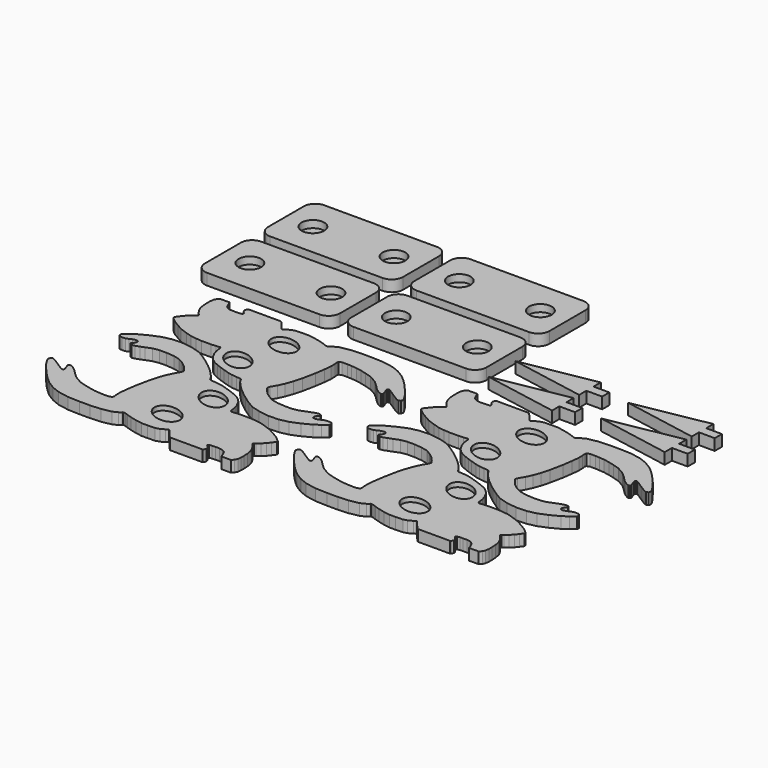
from build123d import *

# Parameters (mm, degrees)
SKETCH020_W               = 16.980982
SKETCH020_H               = 37.458043
PAD013_DEPTH              = 5
PAD012_DEPTH              = 5
POCKET006_DEPTH           = 2
SKETCH017_W               = 16.980982
SKETCH017_H               = 37.458043
PAD011_DEPTH              = 5
PAD010_DEPTH              = 5
POCKET005_DEPTH           = 2
CUT004_PLACEMENT_ANGLE    = 180
SKETCH011_W               = 16.980982
SKETCH011_H               = 37.458043
PAD007_DEPTH              = 5
PAD006_DEPTH              = 5
POCKET003_DEPTH           = 2
SKETCH008_W               = 16.980982
SKETCH008_H               = 37.458043
PAD005_DEPTH              = 5
PAD004_DEPTH              = 5
POCKET002_DEPTH           = 2
CUT001_PLACEMENT_ANGLE    = 180
PAD002_DEPTH              = 5
BODY002_PLACEMENT_ANGLE   = 180
PAD017_DEPTH              = 5
BODY017_PLACEMENT_ANGLE   = 180
PAD018_DEPTH              = 5
BODY018_PLACEMENT_ANGLE   = 180
PAD019_DEPTH              = 5
BODY019_PLACEMENT_ANGLE   = 180
SKETCH004_W               = 30
SKETCH004_H               = 60
PAD003_DEPTH              = 5
FILLET_R                  = 5
SKETCH005_R               = 5
POCKET001_DEPTH           = 3.2
SKETCH021_W               = 30
SKETCH021_H               = 60
PAD014_DEPTH              = 5
FILLET001_R               = 5
SKETCH022_R               = 5
POCKET007_DEPTH           = 3.2
SKETCH023_W               = 30
SKETCH023_H               = 60
PAD015_DEPTH              = 5
FILLET002_R               = 5
SKETCH024_R               = 5
POCKET008_DEPTH           = 3.2
SKETCH025_W               = 30
SKETCH025_H               = 60
PAD016_DEPTH              = 5
FILLET003_R               = 5
SKETCH026_R               = 5
POCKET009_DEPTH           = 3.2
FUSION004_PLACEMENT_ANGLE = 90


with BuildPart() as body013:
    # Sketch020 → Pad013 (new body)
    with BuildSketch(Plane.XY):
        with Locations((-33.035941, -22.865994)):
            Rectangle(SKETCH020_W, SKETCH020_H)
    extrude(amount=PAD013_DEPTH)


with BuildPart() as obj1:
    # Sketch018 → Pad012 (new body)
    with BuildSketch(Plane.XY):
        Polygon((-3.977374, 57.528042), (-4.62839, 57.787308), (-5.059453, 57.756519), (-5.890786, 57.325455), (-8.261625, 55.84753), (-10.724834, 53.907753), (-14.234909, 50.797951), (-16.488501, 48.538963), (-18.459068, 46.291286), (-20.552797, 42.904373), (-21.969143, 39.394299), (-22.874966, 34.517551), (-23.080542, 29.24115), (-23.080542, 24.512947), (-22.806442, 19.921793), (-21.984146, 15.673264), (-20.931427, 13.541588), (-20.196489, 12.576984), (-19.922314, 12.362477), (-19.888332, 12.022666), (-19.956295, 11.501621), (-20.182837, 10.754036), (-20.579283, 9.768582), (-21.205084, 7.728108), (-21.844406, 5.058001), (-22.3333, 2.237465), (-22.3333, -0.47025), (-22.220192, -3.680502), (-21.731298, -5.410431), (-20.753513, -7.215574), (-20.227013, -8.005324), (-20.187271, -8.178533), (-20.233109, -8.386882), (-20.403955, -8.599399), (-20.908161, -8.986929), (-22.154099, -9.994506), (-23.824734, -11.428793), (-25.33345, -13.214621), (-26.903748, -15.52388), (-28.227722, -19.372646), (-28.227722, -22.090714), (-26.90617, -23.999701), (-25.705355, -25.385256), (-24.165846, -26.955553), (-23.303724, -27.325035), (-22.53397, -27.140293), (-21.733427, -26.524492), (-21.056046, -25.877899), (-20.471031, -26.30896), (-20.317081, -27.448195), (-20.255501, -28.895332), (-20.255501, -30.695551), (-20.471138, -32.142689), (-21.333261, -33.589825), (-22.749607, -34.328785), (-24.535435, -34.97538), (-25.582298, -35.652763), (-27.583658, -37.099899), (-26.466297, -38.077568), (-25.434336, -38.015652), (-24.650045, -39.130169), (-23.576805, -40.141491), (-22.482924, -40.636833), (-20.908491, -40.844303), (-19.195435, -40.844303), (-17.214067, -40.741108), (-14.902472, -40.348961), (-13.519643, -39.709145), (-12.508322, -39.08997), (-11.538276, -38.367596), (-10.733345, -37.645222), (-10.258643, -37.397552), (-9.804581, -37.624584), (-9.350516, -38.285038), (-8.316945, -39.69281), (-6.877927, -40.994781), (-5.507432, -42.091175), (-3.999888, -43.187572), (-3.383168, -43.119045), (-2.560872, -42.159702), (-1.327426, -40.652157), (0, -38.417194), (1.533442, -35.719849), (2.718258, -32.467911), (3.579239, -29.654877), (3.906954, -27.184412), (4.108624, -24.638319), (4.108624, -22.999746), (4.108624, -20.463024), (3.950882, -18.319418), (3.762846, -16.514273), (4.439775, -16.100595), (5.680811, -15.950167), (7.072274, -15.724524), (8.726989, -15.198024), (10.118454, -14.483488), (11.434704, -13.731346), (12.720697, -12.473278), (13.886518, -10.893778), (14.676268, -9.088635), (15.503627, -7.020243), (16.181381, -4.980232), (17.046347, -2.347732), (17.460026, -0.39216), (17.687353, 1.724155), (17.83778, 3.679727), (18.213852, 4.206226), (19.793352, 5.108798), (21.786531, 6.876333), (23.565575, 8.639679), (25.862247, 11.349754), (27.837389, 13.922029), (30.042194, 17.137373), (31.780235, 20.102432), (32.951984, 24.119852), (33.621552, 28.723146), (33.454159, 33.242744), (32.617195, 37.09277), (31.026974, 41.026493), (29.018257, 44.876518), (27.344334, 47.387405), (25.67041, 49.479813), (24.637573, 49.479813), (23.898611, 48.926289), (23.775448, 47.756264), (23.867819, 46.309128), (24.329672, 45.139103), (24.914684, 43.938286), (25.222586, 42.645103), (25.068634, 41.690609), (24.329672, 41.382706), (23.282808, 41.813766), (22.297523, 42.737473), (21.62014, 42.367992), (21.373819, 41.567448), (21.589401, 40.264072), (22.205204, 38.601406), (22.882483, 36.809189), (23.867092, 34.246101), (24.328943, 31.56736), (24.328943, 28.388382), (24.020599, 24.939888), (23.372599, 22.159571), (22.079414, 19.819519), (20.478329, 17.75658), (18.692501, 16.186285), (17.614847, 15.385742), (17.152994, 15.139421), (16.1985, 15.478112), (13.704499, 16.925249), (11.109124, 18.146231), (7.96734, 19.268295), (4.264523, 20.278154), (-1.562892, 21.46686), (-5.742837, 22.063995), (-9.050048, 22.431463), (-11.300789, 22.339596), (-12.586926, 22.201796), (-13.275928, 22.38553), (-13.781198, 23.5798), (-13.781198, 26.014275), (-13.667527, 27.819324), (-13.502415, 30.069002), (-12.986451, 32.615383), (-12.346076, 35.158173), (-11.499866, 38.027027), (-9.518498, 41.45314), (-7.679979, 43.467682), (-5.491951, 45.655712), (-4.553504, 46.874596), (-3.885208, 48.075264), (-3.760611, 48.777538), (-3.896535, 49.19664), (-4.281655, 49.434509), (-4.780046, 49.332565), (-5.369052, 49.072044), (-6.037349, 48.834175), (-6.784935, 48.596306), (-7.271997, 48.449055), (-7.738668, 48.585323), (-7.931229, 49.163006), (-7.670706, 49.695377), (-7.149662, 50.533577), (-6.379942, 51.742527), (-5.554372, 53.001522), (-4.708163, 54.322433), (-3.841315, 55.725903), (-3.490448, 56.737225), align=None)
    extrude(amount=PAD012_DEPTH)

    # Sketch019 (on Face188 of Pad012) → Pocket006 (cut)
    with BuildSketch(Plane.XY.offset(5)):
        with BuildLine():
            add(Edge.make_bspline(
                [(-9.103317, 5.942908), (-16.966556, 8.642811), (-16.239961, -2.041503), (-15.513366, -12.725816), (-8.376722, -4.741406), (-1.240078, 3.243005), (-9.103317, 5.942908)],
                knots=[0, 0, 0, 2.094395, 2.094395, 4.18879, 4.18879, 6.283185, 6.283185, 6.283185], degree=2, weights=[1, 0.5, 1, 0.5, 1, 0.5, 1]))
        make_face()
        with BuildLine():
            add(Edge.make_bspline(
                [(10.507138, -0.113946), (3.233814, 3.913307), (2.089769, -6.7344), (0.945724, -17.382107), (9.363093, -10.761653), (17.780461, -4.141199), (10.507138, -0.113946)],
                knots=[0, 0, 0, 2.094395, 2.094395, 4.18879, 4.18879, 6.283185, 6.283185, 6.283185], degree=2, weights=[1, 0.5, 1, 0.5, 1, 0.5, 1]))
        make_face()
    extrude(amount=-POCKET006_DEPTH, mode=Mode.SUBTRACT)

    # Cut005: cut Body013
    add(body013.part, mode=Mode.SUBTRACT)


with BuildPart() as obj1_1:
    # Cut005 placement: moved
    add(obj1.part.moved(Location((-60, 50, -5))))


with BuildPart() as body011:
    # Sketch017 → Pad011 (new body)
    with BuildSketch(Plane.XY):
        with Locations((-33.035941, -22.865994)):
            Rectangle(SKETCH017_W, SKETCH017_H)
    extrude(amount=PAD011_DEPTH)


with BuildPart() as part3:
    # Sketch015 → Pad010 (new body)
    with BuildSketch(Plane.XY):
        Polygon((-3.977374, 57.528042), (-4.62839, 57.787308), (-5.059453, 57.756519), (-5.890786, 57.325455), (-8.261625, 55.84753), (-10.724834, 53.907753), (-14.234909, 50.797951), (-16.488501, 48.538963), (-18.459068, 46.291286), (-20.552797, 42.904373), (-21.969143, 39.394299), (-22.874966, 34.517551), (-23.080542, 29.24115), (-23.080542, 24.512947), (-22.806442, 19.921793), (-21.984146, 15.673264), (-20.931427, 13.541588), (-20.196489, 12.576984), (-19.922314, 12.362477), (-19.888332, 12.022666), (-19.956295, 11.501621), (-20.182837, 10.754036), (-20.579283, 9.768582), (-21.205084, 7.728108), (-21.844406, 5.058001), (-22.3333, 2.237465), (-22.3333, -0.47025), (-22.220192, -3.680502), (-21.731298, -5.410431), (-20.753513, -7.215574), (-20.227013, -8.005324), (-20.187271, -8.178533), (-20.233109, -8.386882), (-20.403955, -8.599399), (-20.908161, -8.986929), (-22.154099, -9.994506), (-23.824734, -11.428793), (-25.33345, -13.214621), (-26.903748, -15.52388), (-28.227722, -19.372646), (-28.227722, -22.090714), (-26.90617, -23.999701), (-25.705355, -25.385256), (-24.165846, -26.955553), (-23.303724, -27.325035), (-22.53397, -27.140293), (-21.733427, -26.524492), (-21.056046, -25.877899), (-20.471031, -26.30896), (-20.317081, -27.448195), (-20.255501, -28.895332), (-20.255501, -30.695551), (-20.471138, -32.142689), (-21.333261, -33.589825), (-22.749607, -34.328785), (-24.535435, -34.97538), (-25.582298, -35.652763), (-27.583658, -37.099899), (-26.466297, -38.077568), (-25.434336, -38.015652), (-24.650045, -39.130169), (-23.576805, -40.141491), (-22.482924, -40.636833), (-20.908491, -40.844303), (-19.195435, -40.844303), (-17.214067, -40.741108), (-14.902472, -40.348961), (-13.519643, -39.709145), (-12.508322, -39.08997), (-11.538276, -38.367596), (-10.733345, -37.645222), (-10.258643, -37.397552), (-9.804581, -37.624584), (-9.350516, -38.285038), (-8.316945, -39.69281), (-6.877927, -40.994781), (-5.507432, -42.091175), (-3.999888, -43.187572), (-3.383168, -43.119045), (-2.560872, -42.159702), (-1.327426, -40.652157), (0, -38.417194), (1.533442, -35.719849), (2.718258, -32.467911), (3.579239, -29.654877), (3.906954, -27.184412), (4.108624, -24.638319), (4.108624, -22.999746), (4.108624, -20.463024), (3.950882, -18.319418), (3.762846, -16.514273), (4.439775, -16.100595), (5.680811, -15.950167), (7.072274, -15.724524), (8.726989, -15.198024), (10.118454, -14.483488), (11.434704, -13.731346), (12.720697, -12.473278), (13.886518, -10.893778), (14.676268, -9.088635), (15.503627, -7.020243), (16.181381, -4.980232), (17.046347, -2.347732), (17.460026, -0.39216), (17.687353, 1.724155), (17.83778, 3.679727), (18.213852, 4.206226), (19.793352, 5.108798), (21.786531, 6.876333), (23.565575, 8.639679), (25.862247, 11.349754), (27.837389, 13.922029), (30.042194, 17.137373), (31.780235, 20.102432), (32.951984, 24.119852), (33.621552, 28.723146), (33.454159, 33.242744), (32.617195, 37.09277), (31.026974, 41.026493), (29.018257, 44.876518), (27.344334, 47.387405), (25.67041, 49.479813), (24.637573, 49.479813), (23.898611, 48.926289), (23.775448, 47.756264), (23.867819, 46.309128), (24.329672, 45.139103), (24.914684, 43.938286), (25.222586, 42.645103), (25.068634, 41.690609), (24.329672, 41.382706), (23.282808, 41.813766), (22.297523, 42.737473), (21.62014, 42.367992), (21.373819, 41.567448), (21.589401, 40.264072), (22.205204, 38.601406), (22.882483, 36.809189), (23.867092, 34.246101), (24.328943, 31.56736), (24.328943, 28.388382), (24.020599, 24.939888), (23.372599, 22.159571), (22.079414, 19.819519), (20.478329, 17.75658), (18.692501, 16.186285), (17.614847, 15.385742), (17.152994, 15.139421), (16.1985, 15.478112), (13.704499, 16.925249), (11.109124, 18.146231), (7.96734, 19.268295), (4.264523, 20.278154), (-1.562892, 21.46686), (-5.742837, 22.063995), (-9.050048, 22.431463), (-11.300789, 22.339596), (-12.586926, 22.201796), (-13.275928, 22.38553), (-13.781198, 23.5798), (-13.781198, 26.014275), (-13.667527, 27.819324), (-13.502415, 30.069002), (-12.986451, 32.615383), (-12.346076, 35.158173), (-11.499866, 38.027027), (-9.518498, 41.45314), (-7.679979, 43.467682), (-5.491951, 45.655712), (-4.553504, 46.874596), (-3.885208, 48.075264), (-3.760611, 48.777538), (-3.896535, 49.19664), (-4.281655, 49.434509), (-4.780046, 49.332565), (-5.369052, 49.072044), (-6.037349, 48.834175), (-6.784935, 48.596306), (-7.271997, 48.449055), (-7.738668, 48.585323), (-7.931229, 49.163006), (-7.670706, 49.695377), (-7.149662, 50.533577), (-6.379942, 51.742527), (-5.554372, 53.001522), (-4.708163, 54.322433), (-3.841315, 55.725903), (-3.490448, 56.737225), align=None)
    extrude(amount=PAD010_DEPTH)

    # Sketch016 (on Face188 of Pad010) → Pocket005 (cut)
    with BuildSketch(Plane.XY.offset(5)):
        with BuildLine():
            add(Edge.make_bspline(
                [(-9.103317, 5.942908), (-16.966556, 8.642811), (-16.239961, -2.041503), (-15.513366, -12.725816), (-8.376722, -4.741406), (-1.240078, 3.243005), (-9.103317, 5.942908)],
                knots=[0, 0, 0, 2.094395, 2.094395, 4.18879, 4.18879, 6.283185, 6.283185, 6.283185], degree=2, weights=[1, 0.5, 1, 0.5, 1, 0.5, 1]))
        make_face()
        with BuildLine():
            add(Edge.make_bspline(
                [(10.507138, -0.113946), (3.233814, 3.913307), (2.089769, -6.7344), (0.945724, -17.382107), (9.363093, -10.761653), (17.780461, -4.141199), (10.507138, -0.113946)],
                knots=[0, 0, 0, 2.094395, 2.094395, 4.18879, 4.18879, 6.283185, 6.283185, 6.283185], degree=2, weights=[1, 0.5, 1, 0.5, 1, 0.5, 1]))
        make_face()
    extrude(amount=-POCKET005_DEPTH, mode=Mode.SUBTRACT)

    # Cut004: cut Body011
    add(body011.part, mode=Mode.SUBTRACT)


with BuildPart() as part3_1:
    # Cut004 placement: moved
    add(part3.part.moved(Location((-17, 50, -5))).rotate(Axis((-17, 50, -5), (0, 0, 1)), CUT004_PLACEMENT_ANGLE))

    # Fusion002: union obj1
    add(obj1_1.part)


with BuildPart() as body007:
    # Sketch011 → Pad007 (new body)
    with BuildSketch(Plane.XY):
        with Locations((-33.035941, -22.865994)):
            Rectangle(SKETCH011_W, SKETCH011_H)
    extrude(amount=PAD007_DEPTH)


with BuildPart() as obj2:
    # Sketch009 → Pad006 (new body)
    with BuildSketch(Plane.XY):
        Polygon((-3.977374, 57.528042), (-4.62839, 57.787308), (-5.059453, 57.756519), (-5.890786, 57.325455), (-8.261625, 55.84753), (-10.724834, 53.907753), (-14.234909, 50.797951), (-16.488501, 48.538963), (-18.459068, 46.291286), (-20.552797, 42.904373), (-21.969143, 39.394299), (-22.874966, 34.517551), (-23.080542, 29.24115), (-23.080542, 24.512947), (-22.806442, 19.921793), (-21.984146, 15.673264), (-20.931427, 13.541588), (-20.196489, 12.576984), (-19.922314, 12.362477), (-19.888332, 12.022666), (-19.956295, 11.501621), (-20.182837, 10.754036), (-20.579283, 9.768582), (-21.205084, 7.728108), (-21.844406, 5.058001), (-22.3333, 2.237465), (-22.3333, -0.47025), (-22.220192, -3.680502), (-21.731298, -5.410431), (-20.753513, -7.215574), (-20.227013, -8.005324), (-20.187271, -8.178533), (-20.233109, -8.386882), (-20.403955, -8.599399), (-20.908161, -8.986929), (-22.154099, -9.994506), (-23.824734, -11.428793), (-25.33345, -13.214621), (-26.903748, -15.52388), (-28.227722, -19.372646), (-28.227722, -22.090714), (-26.90617, -23.999701), (-25.705355, -25.385256), (-24.165846, -26.955553), (-23.303724, -27.325035), (-22.53397, -27.140293), (-21.733427, -26.524492), (-21.056046, -25.877899), (-20.471031, -26.30896), (-20.317081, -27.448195), (-20.255501, -28.895332), (-20.255501, -30.695551), (-20.471138, -32.142689), (-21.333261, -33.589825), (-22.749607, -34.328785), (-24.535435, -34.97538), (-25.582298, -35.652763), (-27.583658, -37.099899), (-26.466297, -38.077568), (-25.434336, -38.015652), (-24.650045, -39.130169), (-23.576805, -40.141491), (-22.482924, -40.636833), (-20.908491, -40.844303), (-19.195435, -40.844303), (-17.214067, -40.741108), (-14.902472, -40.348961), (-13.519643, -39.709145), (-12.508322, -39.08997), (-11.538276, -38.367596), (-10.733345, -37.645222), (-10.258643, -37.397552), (-9.804581, -37.624584), (-9.350516, -38.285038), (-8.316945, -39.69281), (-6.877927, -40.994781), (-5.507432, -42.091175), (-3.999888, -43.187572), (-3.383168, -43.119045), (-2.560872, -42.159702), (-1.327426, -40.652157), (0, -38.417194), (1.533442, -35.719849), (2.718258, -32.467911), (3.579239, -29.654877), (3.906954, -27.184412), (4.108624, -24.638319), (4.108624, -22.999746), (4.108624, -20.463024), (3.950882, -18.319418), (3.762846, -16.514273), (4.439775, -16.100595), (5.680811, -15.950167), (7.072274, -15.724524), (8.726989, -15.198024), (10.118454, -14.483488), (11.434704, -13.731346), (12.720697, -12.473278), (13.886518, -10.893778), (14.676268, -9.088635), (15.503627, -7.020243), (16.181381, -4.980232), (17.046347, -2.347732), (17.460026, -0.39216), (17.687353, 1.724155), (17.83778, 3.679727), (18.213852, 4.206226), (19.793352, 5.108798), (21.786531, 6.876333), (23.565575, 8.639679), (25.862247, 11.349754), (27.837389, 13.922029), (30.042194, 17.137373), (31.780235, 20.102432), (32.951984, 24.119852), (33.621552, 28.723146), (33.454159, 33.242744), (32.617195, 37.09277), (31.026974, 41.026493), (29.018257, 44.876518), (27.344334, 47.387405), (25.67041, 49.479813), (24.637573, 49.479813), (23.898611, 48.926289), (23.775448, 47.756264), (23.867819, 46.309128), (24.329672, 45.139103), (24.914684, 43.938286), (25.222586, 42.645103), (25.068634, 41.690609), (24.329672, 41.382706), (23.282808, 41.813766), (22.297523, 42.737473), (21.62014, 42.367992), (21.373819, 41.567448), (21.589401, 40.264072), (22.205204, 38.601406), (22.882483, 36.809189), (23.867092, 34.246101), (24.328943, 31.56736), (24.328943, 28.388382), (24.020599, 24.939888), (23.372599, 22.159571), (22.079414, 19.819519), (20.478329, 17.75658), (18.692501, 16.186285), (17.614847, 15.385742), (17.152994, 15.139421), (16.1985, 15.478112), (13.704499, 16.925249), (11.109124, 18.146231), (7.96734, 19.268295), (4.264523, 20.278154), (-1.562892, 21.46686), (-5.742837, 22.063995), (-9.050048, 22.431463), (-11.300789, 22.339596), (-12.586926, 22.201796), (-13.275928, 22.38553), (-13.781198, 23.5798), (-13.781198, 26.014275), (-13.667527, 27.819324), (-13.502415, 30.069002), (-12.986451, 32.615383), (-12.346076, 35.158173), (-11.499866, 38.027027), (-9.518498, 41.45314), (-7.679979, 43.467682), (-5.491951, 45.655712), (-4.553504, 46.874596), (-3.885208, 48.075264), (-3.760611, 48.777538), (-3.896535, 49.19664), (-4.281655, 49.434509), (-4.780046, 49.332565), (-5.369052, 49.072044), (-6.037349, 48.834175), (-6.784935, 48.596306), (-7.271997, 48.449055), (-7.738668, 48.585323), (-7.931229, 49.163006), (-7.670706, 49.695377), (-7.149662, 50.533577), (-6.379942, 51.742527), (-5.554372, 53.001522), (-4.708163, 54.322433), (-3.841315, 55.725903), (-3.490448, 56.737225), align=None)
    extrude(amount=PAD006_DEPTH)

    # Sketch010 (on Face188 of Pad006) → Pocket003 (cut)
    with BuildSketch(Plane.XY.offset(5)):
        with BuildLine():
            add(Edge.make_bspline(
                [(-9.103317, 5.942908), (-16.966556, 8.642811), (-16.239961, -2.041503), (-15.513366, -12.725816), (-8.376722, -4.741406), (-1.240078, 3.243005), (-9.103317, 5.942908)],
                knots=[0, 0, 0, 2.094395, 2.094395, 4.18879, 4.18879, 6.283185, 6.283185, 6.283185], degree=2, weights=[1, 0.5, 1, 0.5, 1, 0.5, 1]))
        make_face()
        with BuildLine():
            add(Edge.make_bspline(
                [(10.507138, -0.113946), (3.233814, 3.913307), (2.089769, -6.7344), (0.945724, -17.382107), (9.363093, -10.761653), (17.780461, -4.141199), (10.507138, -0.113946)],
                knots=[0, 0, 0, 2.094395, 2.094395, 4.18879, 4.18879, 6.283185, 6.283185, 6.283185], degree=2, weights=[1, 0.5, 1, 0.5, 1, 0.5, 1]))
        make_face()
    extrude(amount=-POCKET003_DEPTH, mode=Mode.SUBTRACT)

    # Cut002: cut Body007
    add(body007.part, mode=Mode.SUBTRACT)


with BuildPart() as obj2_1:
    # Cut002 placement: moved
    add(obj2.part.moved(Location((-60, -60, -5))))


with BuildPart() as body005:
    # Sketch008 → Pad005 (new body)
    with BuildSketch(Plane.XY):
        with Locations((-33.035941, -22.865994)):
            Rectangle(SKETCH008_W, SKETCH008_H)
    extrude(amount=PAD005_DEPTH)


with BuildPart() as part4:
    # Sketch006 → Pad004 (new body)
    with BuildSketch(Plane.XY):
        Polygon((-3.977374, 57.528042), (-4.62839, 57.787308), (-5.059453, 57.756519), (-5.890786, 57.325455), (-8.261625, 55.84753), (-10.724834, 53.907753), (-14.234909, 50.797951), (-16.488501, 48.538963), (-18.459068, 46.291286), (-20.552797, 42.904373), (-21.969143, 39.394299), (-22.874966, 34.517551), (-23.080542, 29.24115), (-23.080542, 24.512947), (-22.806442, 19.921793), (-21.984146, 15.673264), (-20.931427, 13.541588), (-20.196489, 12.576984), (-19.922314, 12.362477), (-19.888332, 12.022666), (-19.956295, 11.501621), (-20.182837, 10.754036), (-20.579283, 9.768582), (-21.205084, 7.728108), (-21.844406, 5.058001), (-22.3333, 2.237465), (-22.3333, -0.47025), (-22.220192, -3.680502), (-21.731298, -5.410431), (-20.753513, -7.215574), (-20.227013, -8.005324), (-20.187271, -8.178533), (-20.233109, -8.386882), (-20.403955, -8.599399), (-20.908161, -8.986929), (-22.154099, -9.994506), (-23.824734, -11.428793), (-25.33345, -13.214621), (-26.903748, -15.52388), (-28.227722, -19.372646), (-28.227722, -22.090714), (-26.90617, -23.999701), (-25.705355, -25.385256), (-24.165846, -26.955553), (-23.303724, -27.325035), (-22.53397, -27.140293), (-21.733427, -26.524492), (-21.056046, -25.877899), (-20.471031, -26.30896), (-20.317081, -27.448195), (-20.255501, -28.895332), (-20.255501, -30.695551), (-20.471138, -32.142689), (-21.333261, -33.589825), (-22.749607, -34.328785), (-24.535435, -34.97538), (-25.582298, -35.652763), (-27.583658, -37.099899), (-26.466297, -38.077568), (-25.434336, -38.015652), (-24.650045, -39.130169), (-23.576805, -40.141491), (-22.482924, -40.636833), (-20.908491, -40.844303), (-19.195435, -40.844303), (-17.214067, -40.741108), (-14.902472, -40.348961), (-13.519643, -39.709145), (-12.508322, -39.08997), (-11.538276, -38.367596), (-10.733345, -37.645222), (-10.258643, -37.397552), (-9.804581, -37.624584), (-9.350516, -38.285038), (-8.316945, -39.69281), (-6.877927, -40.994781), (-5.507432, -42.091175), (-3.999888, -43.187572), (-3.383168, -43.119045), (-2.560872, -42.159702), (-1.327426, -40.652157), (0, -38.417194), (1.533442, -35.719849), (2.718258, -32.467911), (3.579239, -29.654877), (3.906954, -27.184412), (4.108624, -24.638319), (4.108624, -22.999746), (4.108624, -20.463024), (3.950882, -18.319418), (3.762846, -16.514273), (4.439775, -16.100595), (5.680811, -15.950167), (7.072274, -15.724524), (8.726989, -15.198024), (10.118454, -14.483488), (11.434704, -13.731346), (12.720697, -12.473278), (13.886518, -10.893778), (14.676268, -9.088635), (15.503627, -7.020243), (16.181381, -4.980232), (17.046347, -2.347732), (17.460026, -0.39216), (17.687353, 1.724155), (17.83778, 3.679727), (18.213852, 4.206226), (19.793352, 5.108798), (21.786531, 6.876333), (23.565575, 8.639679), (25.862247, 11.349754), (27.837389, 13.922029), (30.042194, 17.137373), (31.780235, 20.102432), (32.951984, 24.119852), (33.621552, 28.723146), (33.454159, 33.242744), (32.617195, 37.09277), (31.026974, 41.026493), (29.018257, 44.876518), (27.344334, 47.387405), (25.67041, 49.479813), (24.637573, 49.479813), (23.898611, 48.926289), (23.775448, 47.756264), (23.867819, 46.309128), (24.329672, 45.139103), (24.914684, 43.938286), (25.222586, 42.645103), (25.068634, 41.690609), (24.329672, 41.382706), (23.282808, 41.813766), (22.297523, 42.737473), (21.62014, 42.367992), (21.373819, 41.567448), (21.589401, 40.264072), (22.205204, 38.601406), (22.882483, 36.809189), (23.867092, 34.246101), (24.328943, 31.56736), (24.328943, 28.388382), (24.020599, 24.939888), (23.372599, 22.159571), (22.079414, 19.819519), (20.478329, 17.75658), (18.692501, 16.186285), (17.614847, 15.385742), (17.152994, 15.139421), (16.1985, 15.478112), (13.704499, 16.925249), (11.109124, 18.146231), (7.96734, 19.268295), (4.264523, 20.278154), (-1.562892, 21.46686), (-5.742837, 22.063995), (-9.050048, 22.431463), (-11.300789, 22.339596), (-12.586926, 22.201796), (-13.275928, 22.38553), (-13.781198, 23.5798), (-13.781198, 26.014275), (-13.667527, 27.819324), (-13.502415, 30.069002), (-12.986451, 32.615383), (-12.346076, 35.158173), (-11.499866, 38.027027), (-9.518498, 41.45314), (-7.679979, 43.467682), (-5.491951, 45.655712), (-4.553504, 46.874596), (-3.885208, 48.075264), (-3.760611, 48.777538), (-3.896535, 49.19664), (-4.281655, 49.434509), (-4.780046, 49.332565), (-5.369052, 49.072044), (-6.037349, 48.834175), (-6.784935, 48.596306), (-7.271997, 48.449055), (-7.738668, 48.585323), (-7.931229, 49.163006), (-7.670706, 49.695377), (-7.149662, 50.533577), (-6.379942, 51.742527), (-5.554372, 53.001522), (-4.708163, 54.322433), (-3.841315, 55.725903), (-3.490448, 56.737225), align=None)
    extrude(amount=PAD004_DEPTH)

    # Sketch007 (on Face188 of Pad004) → Pocket002 (cut)
    with BuildSketch(Plane.XY.offset(5)):
        with BuildLine():
            add(Edge.make_bspline(
                [(-9.103317, 5.942908), (-16.966556, 8.642811), (-16.239961, -2.041503), (-15.513366, -12.725816), (-8.376722, -4.741406), (-1.240078, 3.243005), (-9.103317, 5.942908)],
                knots=[0, 0, 0, 2.094395, 2.094395, 4.18879, 4.18879, 6.283185, 6.283185, 6.283185], degree=2, weights=[1, 0.5, 1, 0.5, 1, 0.5, 1]))
        make_face()
        with BuildLine():
            add(Edge.make_bspline(
                [(10.507138, -0.113946), (3.233814, 3.913307), (2.089769, -6.7344), (0.945724, -17.382107), (9.363093, -10.761653), (17.780461, -4.141199), (10.507138, -0.113946)],
                knots=[0, 0, 0, 2.094395, 2.094395, 4.18879, 4.18879, 6.283185, 6.283185, 6.283185], degree=2, weights=[1, 0.5, 1, 0.5, 1, 0.5, 1]))
        make_face()
    extrude(amount=-POCKET002_DEPTH, mode=Mode.SUBTRACT)

    # Cut001: cut Body005
    add(body005.part, mode=Mode.SUBTRACT)


with BuildPart() as part4_1:
    # Cut001 placement: moved
    add(part4.part.moved(Location((-17, -60, -5))).rotate(Axis((-17, -60, -5), (0, 0, 1)), CUT001_PLACEMENT_ANGLE))

    # Fusion003: union obj2
    add(obj2_1.part)


with BuildPart() as obj3:
    # Sketch003 → Pad002 (new body)
    with BuildSketch(Plane.XY):
        Polygon((-2, 10), (2, 10), (2, 3), (6, 3), (0, -30), (-6, 3), (-2, 3), align=None)
    extrude(amount=PAD002_DEPTH)


with BuildPart() as obj3_1:
    # Body002 placement: moved
    add(obj3.part.moved(Location((20, -50, -5))).rotate(Axis((20, -50, -5), (0, 0, 1)), BODY002_PLACEMENT_ANGLE))


with BuildPart() as obj4:
    # Sketch027 → Pad017 (new body)
    with BuildSketch(Plane.XY):
        Polygon((-2, 10), (2, 10), (2, 3), (6, 3), (0, -30), (-6, 3), (-2, 3), align=None)
    extrude(amount=PAD017_DEPTH)


with BuildPart() as obj4_1:
    # Body017 placement: moved
    add(obj4.part.moved(Location((35, -50, -5))).rotate(Axis((35, -50, -5), (0, 0, 1)), BODY017_PLACEMENT_ANGLE))


with BuildPart() as obj5:
    # Sketch028 → Pad018 (new body)
    with BuildSketch(Plane.XY):
        Polygon((-2, 10), (2, 10), (2, 3), (6, 3), (0, -30), (-6, 3), (-2, 3), align=None)
    extrude(amount=PAD018_DEPTH)


with BuildPart() as obj5_1:
    # Body018 placement: moved
    add(obj5.part.moved(Location((20, -100, -5))).rotate(Axis((20, -100, -5), (0, 0, 1)), BODY018_PLACEMENT_ANGLE))


with BuildPart() as part1:
    # Sketch029 → Pad019 (new body)
    with BuildSketch(Plane.XY):
        Polygon((-2, 10), (2, 10), (2, 3), (6, 3), (0, -30), (-6, 3), (-2, 3), align=None)
    extrude(amount=PAD019_DEPTH)


with BuildPart() as part1_1:
    # Body019 placement: moved
    add(part1.part.moved(Location((35, -100, -5))).rotate(Axis((35, -100, -5), (0, 0, 1)), BODY019_PLACEMENT_ANGLE))

    # Fusion: union obj3, obj4, obj5
    add(obj3_1.part)
    add(obj4_1.part)
    add(obj5_1.part)


with BuildPart() as obj6:
    # Sketch004 → Pad003 (new body)
    with BuildSketch(Plane.XY):
        Rectangle(SKETCH004_W, SKETCH004_H)
    extrude(amount=PAD003_DEPTH)

    # Fillet
    fillet_edges = [obj6.edges().sort_by_distance(p)[0] for p in [
        (-15, 30, 2.5),
        (-15, -30, 2.5),
        (15, -30, 2.5),
        (15, 30, 2.5),
    ]]
    fillet(fillet_edges, radius=FILLET_R)

    # Sketch005 (on Face5 of Fillet) → Pocket001 (cut)
    with BuildSketch(Plane.XY.offset(5)):
        with Locations((0, 18)):
            Circle(SKETCH005_R)
        with Locations((0, -18)):
            Circle(SKETCH005_R)
    extrude(amount=-POCKET001_DEPTH, mode=Mode.SUBTRACT)


with BuildPart() as obj6_1:
    # Body003 placement: moved
    add(obj6.part.moved(Location((35, 80, -5))))


with BuildPart() as obj7:
    # Sketch021 → Pad014 (new body)
    with BuildSketch(Plane.XY):
        Rectangle(SKETCH021_W, SKETCH021_H)
    extrude(amount=PAD014_DEPTH)

    # Fillet001
    fillet001_edges = [obj7.edges().sort_by_distance(p)[0] for p in [
        (-15, 30, 2.5),
        (-15, -30, 2.5),
        (15, -30, 2.5),
        (15, 30, 2.5),
    ]]
    fillet(fillet001_edges, radius=FILLET001_R)

    # Sketch022 (on Face5 of Fillet001) → Pocket007 (cut)
    with BuildSketch(Plane.XY.offset(5)):
        with Locations((0, 18)):
            Circle(SKETCH022_R)
        with Locations((0, -18)):
            Circle(SKETCH022_R)
    extrude(amount=-POCKET007_DEPTH, mode=Mode.SUBTRACT)


with BuildPart() as obj7_1:
    # Body014 placement: moved
    add(obj7.part.moved(Location((35, 15, -5))))


with BuildPart() as obj8:
    # Sketch023 → Pad015 (new body)
    with BuildSketch(Plane.XY):
        Rectangle(SKETCH023_W, SKETCH023_H)
    extrude(amount=PAD015_DEPTH)

    # Fillet002
    fillet002_edges = [obj8.edges().sort_by_distance(p)[0] for p in [
        (-15, 30, 2.5),
        (-15, -30, 2.5),
        (15, -30, 2.5),
        (15, 30, 2.5),
    ]]
    fillet(fillet002_edges, radius=FILLET002_R)

    # Sketch024 (on Face5 of Fillet002) → Pocket008 (cut)
    with BuildSketch(Plane.XY.offset(5)):
        with Locations((0, 18)):
            Circle(SKETCH024_R)
        with Locations((0, -18)):
            Circle(SKETCH024_R)
    extrude(amount=-POCKET008_DEPTH, mode=Mode.SUBTRACT)


with BuildPart() as obj8_1:
    # Body015 placement: moved
    add(obj8.part.moved(Location((70, 80, -5))))


with BuildPart() as all:
    # Sketch025 → Pad016 (new body)
    with BuildSketch(Plane.XY):
        Rectangle(SKETCH025_W, SKETCH025_H)
    extrude(amount=PAD016_DEPTH)

    # Fillet003
    fillet003_edges = [all.edges().sort_by_distance(p)[0] for p in [
        (-15, 30, 2.5),
        (-15, -30, 2.5),
        (15, -30, 2.5),
        (15, 30, 2.5),
    ]]
    fillet(fillet003_edges, radius=FILLET003_R)

    # Sketch026 (on Face5 of Fillet003) → Pocket009 (cut)
    with BuildSketch(Plane.XY.offset(5)):
        with Locations((0, 18)):
            Circle(SKETCH026_R)
        with Locations((0, -18)):
            Circle(SKETCH026_R)
    extrude(amount=-POCKET009_DEPTH, mode=Mode.SUBTRACT)


with BuildPart() as all_1:
    # Body016 placement: moved
    add(all.part.moved(Location((70, 15, -5))))

    # Fusion001: union obj6, obj7, obj8
    add(obj6_1.part)
    add(obj7_1.part)
    add(obj8_1.part)

    # Fusion004: union Part3, Part4, Part1
    add(part3_1.part)
    add(part4_1.part)
    add(part1_1.part)


with BuildPart() as all_2:
    # Fusion004 placement: moved
    add(all_1.part.rotate(Axis((0, 0, 0), (0, 0, 1)), FUSION004_PLACEMENT_ANGLE))


solid = all_2.part
